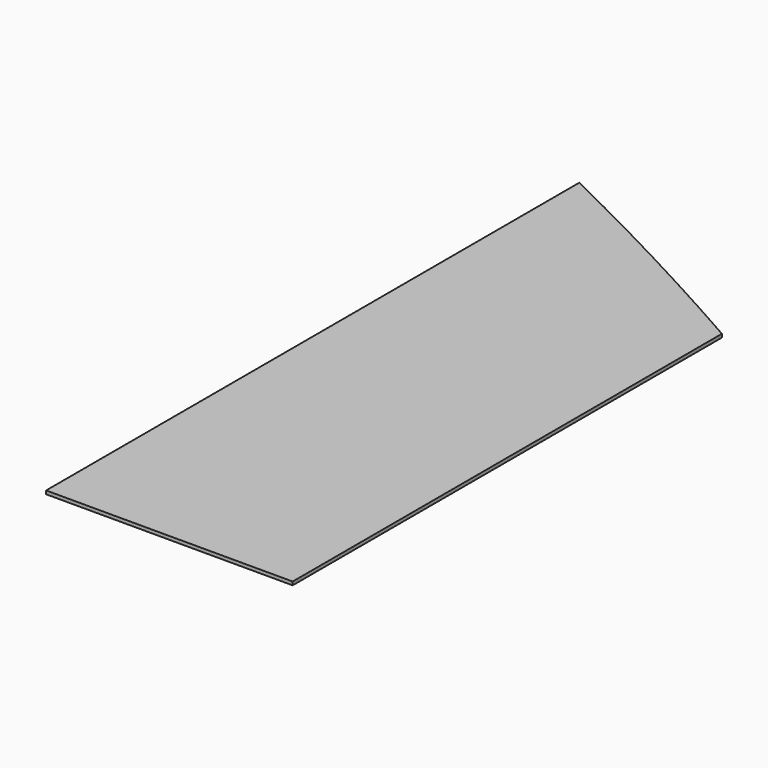
from build123d import *

# Parameters (mm, degrees)
F1_DEPTH = 25.4


with BuildPart() as f1:
    # F0 (on Top) → F1 (new body)
    with BuildSketch(Plane.XY):
        with BuildLine():
            Line((-930.027964, 4106.075962), (-930.027964, -906.360038))
            Line((-930.027964, -906.360038), (-2.927964, -906.360038))
            Line((-2.927964, -906.360038), (-2.927964, 3635.921962))
            ThreePointArc((-2.927964, 3635.921962), (-464.641328, 3874.620637), (-930.027964, 4106.075962))
        make_face()
        with BuildLine():
            Line((-2.927964, 3635.921962), (-2.927964, -906.360038))
            Line((-2.927964, -906.360038), (924.172036, -906.360038))
            Line((924.172036, -906.360038), (924.172036, 3128.429962))
            ThreePointArc((924.172036, 3128.429962), (462.637743, 3385.85831), (-2.927964, 3635.921962))
        make_face()
    extrude(amount=F1_DEPTH)


solid = f1.part
